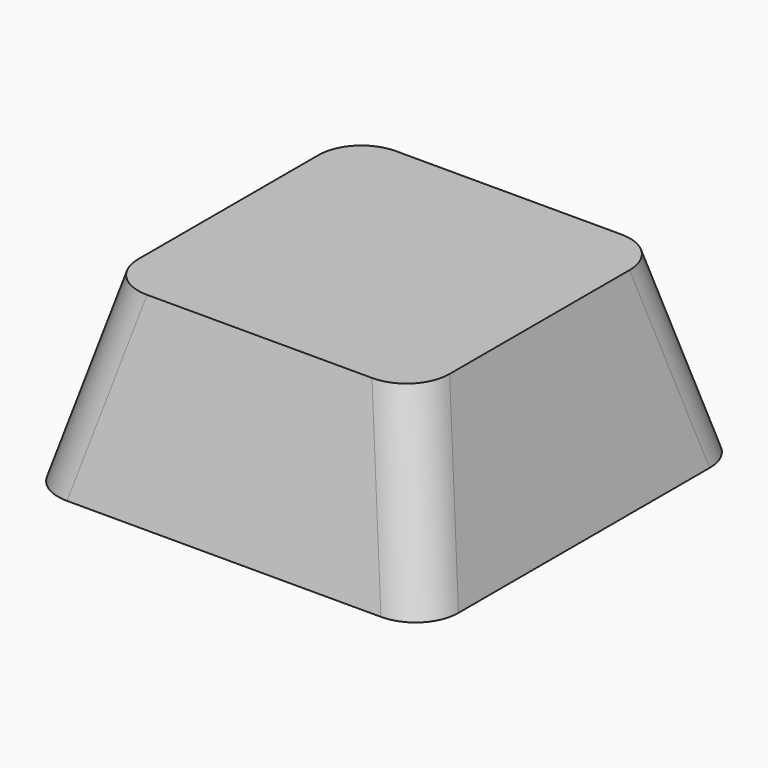
from build123d import *

# Parameters (mm, degrees)
SKETCH_W             = 18
SKETCH_H             = 18
PAD_DEPTH            = 8
POCKET_DEPTH         = 18.001
POCKET001_DEPTH      = 9.001
POCKET001_DEPTH_BACK = 9.001
FILLET_R             = 2
THICKNESS_T          = -1


with BuildPart() as part:
    # Sketch → Pad (new body)
    with BuildSketch(Plane.XY):
        Rectangle(SKETCH_W, SKETCH_H)
    extrude(amount=PAD_DEPTH)

    # Sketch001 (on Face1 of Pad) → Pocket (cut, through all)
    with BuildSketch(Plane.XZ.offset(9)):
        Polygon((-9, 8), (-9, 0), (-7, 8), align=None)
        Polygon((9, 8), (9, 0), (7, 8), align=None)
    extrude(amount=-POCKET_DEPTH, mode=Mode.SUBTRACT)

    # Sketch002 → Pocket001 (cut, two sides)
    with BuildSketch(Plane.YZ) as pocket001_sk:
        Polygon((-9, 8), (-7, 8), (-9, 0), align=None)
        Polygon((9, 8), (7, 8), (9, 0), align=None)
    extrude(amount=-POCKET001_DEPTH, mode=Mode.SUBTRACT)
    extrude(pocket001_sk.sketch, amount=POCKET001_DEPTH_BACK, mode=Mode.SUBTRACT)

    # Fillet
    fillet_edges = [part.edges().sort_by_distance(p)[0] for p in [
        (-8, 8, 4),
        (-8, -8, 4),
        (8, -8, 4),
        (8, 8, 4),
    ]]
    fillet(fillet_edges, radius=FILLET_R)

    # Thickness
    thickness_openings = [part.faces().sort_by_distance(p)[0] for p in [
        (0, 0, 0),
    ]]
    offset(amount=THICKNESS_T, openings=thickness_openings, kind=Kind.INTERSECTION)


solid = part.part
